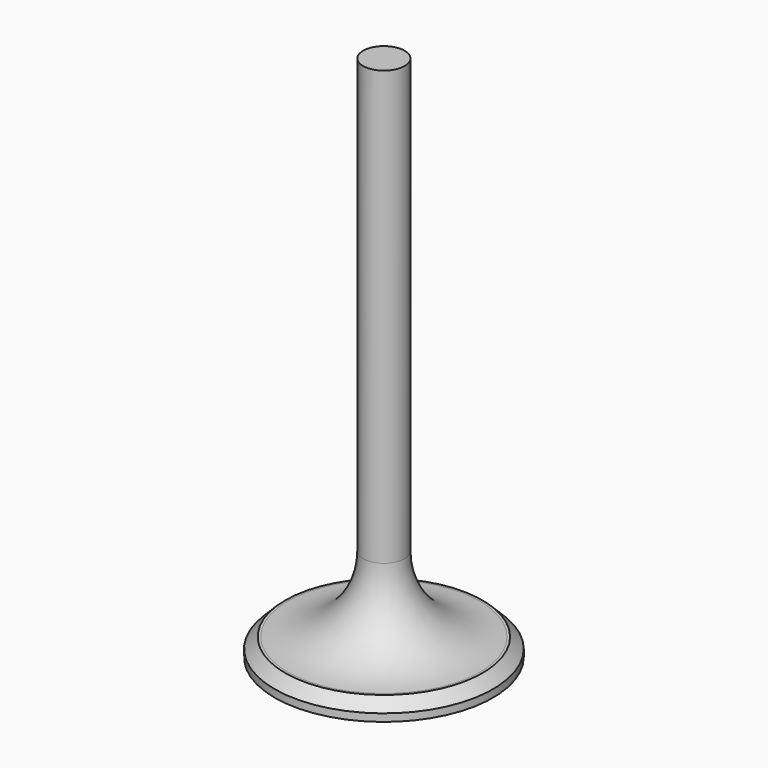
from build123d import *


with BuildPart() as f1:
    # F0 (on Front) → F1 (revolve)
    with BuildSketch(Plane.XZ):
        with BuildLine():
            Line((-18.415, 0), (-14.562611, 0))
            Line((-14.562611, 0), (0, 1.188684))
            Line((0, 1.188684), (0, 88.9))
            Line((0, 88.9), (-3.5, 88.9))
            Line((-3.5, 88.9), (-3.5, 15.766051))
            ThreePointArc((-3.5, 15.766051), (-7.219744, 6.785795), (-16.2, 3.066051))
            Line((-16.2, 3.066051), (-16.618949, 3.066051))
            Line((-16.618949, 3.066051), (-18.415, 1.27))
            Line((-18.415, 1.27), (-18.415, 0))
        make_face()
    revolve(axis=Axis((0, 0, 45.044342), (0, 0, -1)))


solid = f1.part
